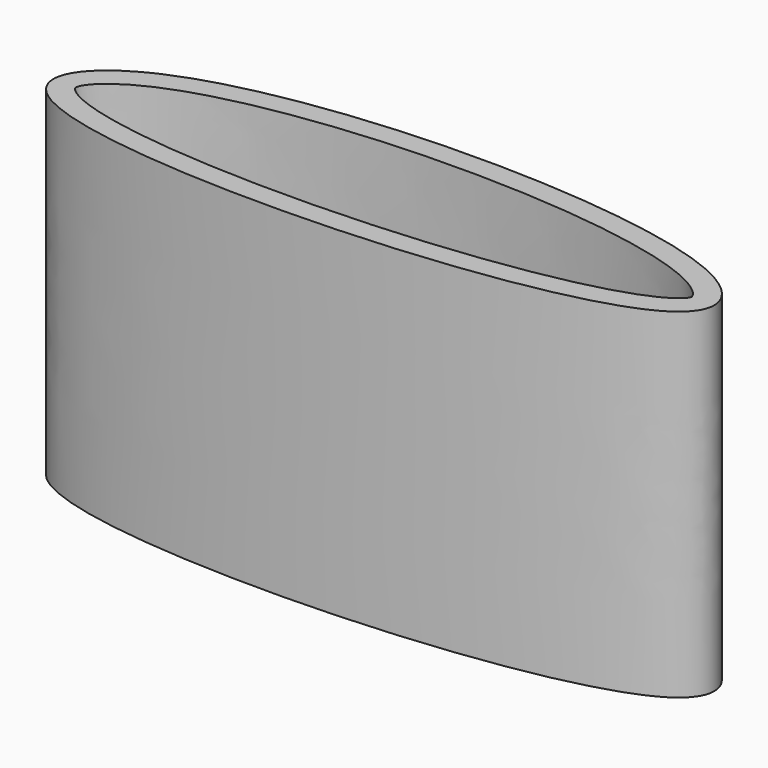
from build123d import *

# Parameters (mm, degrees)
F1_DEPTH = 38.1
F2_T     = -2.54


with BuildPart() as f1:
    # F0 (on Top) → F1 (new body)
    with BuildSketch(Plane.XY):
        with BuildLine():
            add(Edge.make_bspline(
                [(-76.9444853067, 25.7503464818), (-61.9201962981, 32.4299310774), (-13.2363420096, 31.8850522919), (-8.6184507643, 11.995363129), (-92.2934839909, 8.8093636472), (-83.2300709135, 22.9558647749), (-76.9444853067, 25.7503464818)],
                knots=[0, 0, 0, 0, 0.3554938146, 0.4785052231, 0.8512750385, 1, 1, 1, 1], degree=3))
        make_face()
    extrude(amount=F1_DEPTH)

    # F2
    f2_openings = [f1.faces().sort_by_distance(p)[0] for p in [
        (-48.127118, 21.196448, 38.1),
    ]]
    offset(amount=F2_T, openings=f2_openings)


solid = f1.part
